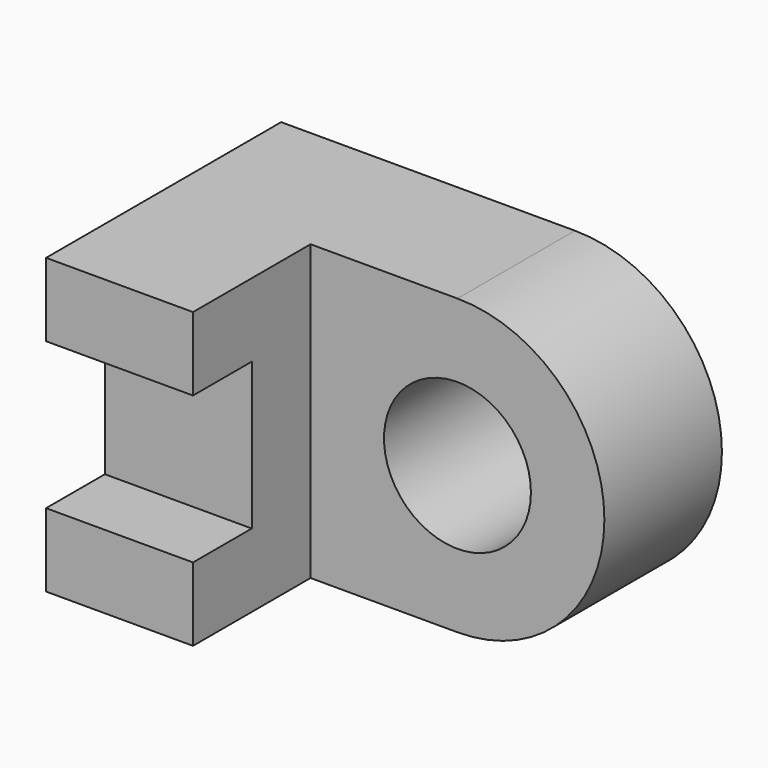
from build123d import *

# Parameters (mm, degrees)
F0_R     = 6.35
F1_DEPTH = 12.7
F3_DEPTH = 12.7


with BuildPart() as f1:
    # F0 (on Front) → F1 (new body)
    with BuildSketch(Plane.XZ):
        with BuildLine():
            Line((0, 25.4), (0, 0))
            Line((0, 0), (12.7, 0))
            ThreePointArc((12.7, 0), (25.4, 12.7), (12.7, 25.4))
            Line((12.7, 25.4), (0, 25.4))
        make_face()
        with Locations((12.7, 12.7)):
            Circle(F0_R, mode=Mode.SUBTRACT)
    extrude(amount=F1_DEPTH)

    # F2 (on Right) → F3 (join)
    with BuildSketch(Plane.YZ):
        Polygon((-25.4, 0), (0, 0), (0, 25.4), (-25.4, 25.4), (-25.4, 19.05), (-19.05, 19.05), (-19.05, 6.35), (-25.4, 6.35), align=None)
    extrude(amount=-F3_DEPTH)


solid = f1.part
